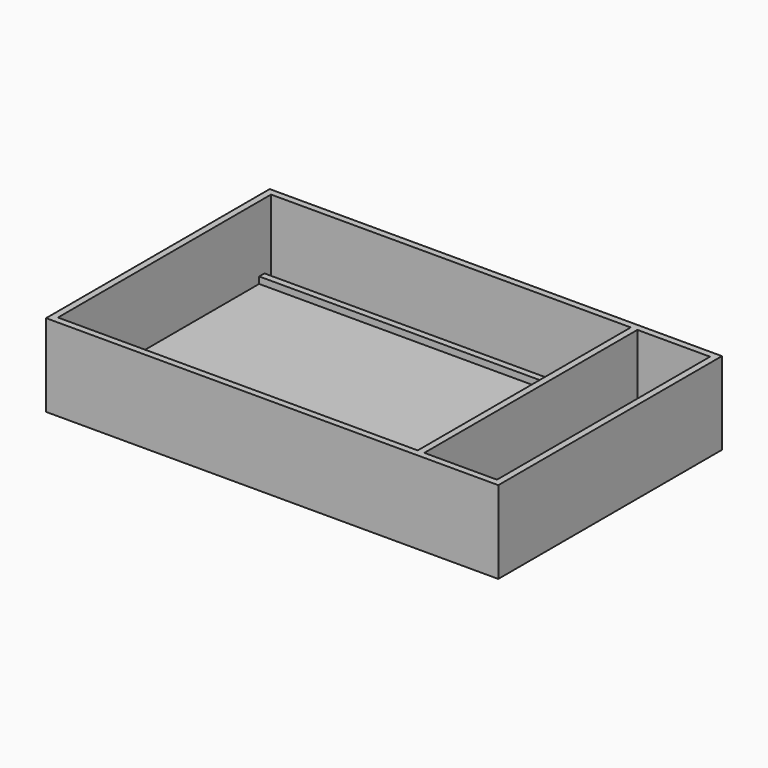
from build123d import *

# Parameters (mm, degrees)
F0_W     = 136.94
F0_H     = 84.65
F1_DEPTH = 25
F2_W     = 108.94
F2_H     = 71.65
F2_H_2   = 2.5
F3_DEPTH = 22
F4_W     = 22
F4_H     = 80.65
F5_DEPTH = 22
F6_W     = 108.94
F6_H     = 2
F7_DEPTH = 20


with BuildPart() as f1:
    # F0 (on Top) → F1 (new body)
    with BuildSketch(Plane.XY):
        with Locations((68.47, 42.325)):
            Rectangle(F0_W, F0_H)
    extrude(amount=F1_DEPTH)

    # F2 (on face) → F3 (cut)
    with BuildSketch(Plane.XY.offset(25)):
        with Locations((56.47, 42.325)):
            Rectangle(F2_W, F2_H)
        with Locations((56.47, 3.25)):
            Rectangle(F2_W, F2_H_2)
        with Locations((56.47, 81.4)):
            Rectangle(F2_W, F2_H_2)
    extrude(amount=-F3_DEPTH, mode=Mode.SUBTRACT)

    # F4 (on face) → F5 (cut)
    with BuildSketch(Plane.XY.offset(25)):
        with Locations((123.94, 42.325)):
            Rectangle(F4_W, F4_H)
    extrude(amount=-F5_DEPTH, mode=Mode.SUBTRACT)

    # F6 (on face) → F7 (cut)
    with BuildSketch(Plane.XY.offset(25)):
        with Locations((56.47, 79.15)):
            Rectangle(F6_W, F6_H)
        with Locations((56.47, 5.5)):
            Rectangle(F6_W, F6_H)
    extrude(amount=-F7_DEPTH, mode=Mode.SUBTRACT)


solid = f1.part
